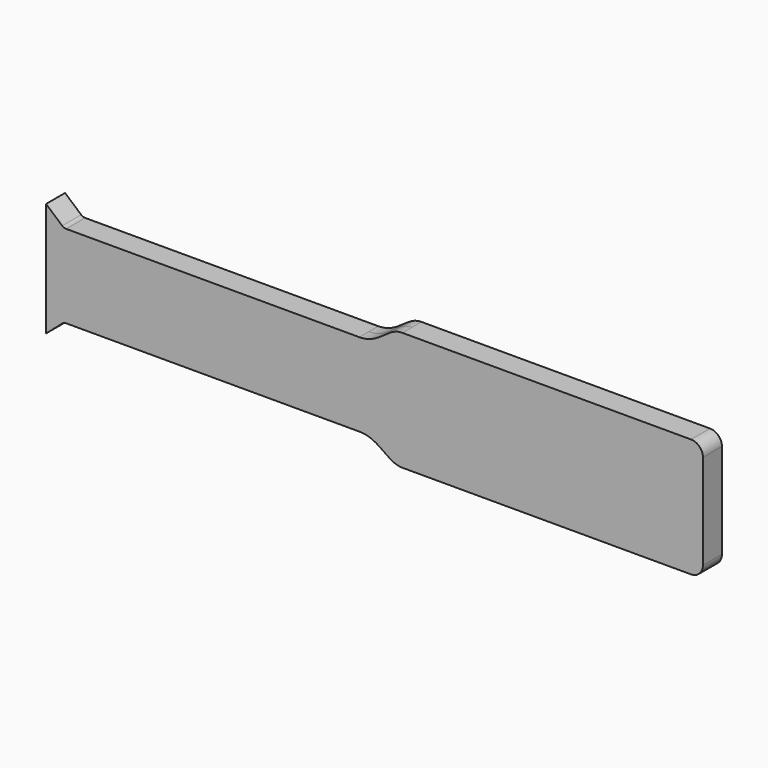
from build123d import *

# Parameters (mm, degrees)
F0_W     = 151.5346497297
F0_H     = 70
F1_DEPTH = 10
F2_R     = 10
F3_R     = 5
F4_R     = 5


with BuildPart() as f1:
    # F0 (on Front) → F1 (new body, symmetric)
    with BuildSketch(Plane.XZ):
        Polygon((-300, 48), (-300, 35), (-285, 35), align=None)
        Polygon((-285, 35), (-300, 35), (-300, -35), (-285, -35), (-36.2545801078, -35), (0, -35), (0, 35), (-36.2545801078, 35), align=None)
        Polygon((-285, -35), (-300, -35), (-300, -48), align=None)
        with BuildLine():
            add(Edge.make_bspline(
                [(0, 50), (-13.1023780133, 50), (-19.1101505149, 35), (-36.2545801078, 35)],
                knots=[0, 0, 0, 0, 39.2351192019, 39.2351192019, 39.2351192019, 39.2351192019], degree=3))
            Line((-36.2545801078, 35), (0, 35))
            Line((0, 35), (0, 50))
        make_face()
        Polygon((0, 50), (0, 35), (151.5346497297, 35), (151.5346497297, -35), (0, -35), (0, -50), (253, -50), (253, 50), align=None)
        with BuildLine():
            Line((0, -35), (-36.2545801078, -35))
            add(Edge.make_bspline(
                [(-36.2545801078, -35), (-19.1101505149, -35), (-13.1023780133, -50), (0, -50)],
                knots=[0, 0, 0, 0, 39.2351192019, 39.2351192019, 39.2351192019, 39.2351192019], degree=3))
            Line((0, -50), (0, -35))
        make_face()
        with Locations((75.7673248649, 0)):
            Rectangle(F0_W, F0_H)
        with Locations((75.7673248649, 0)):
            Rectangle(F0_W, F0_H)
    extrude(amount=F1_DEPTH, both=True)

    # F2
    f2_edges = [f1.edges().sort_by_distance(p)[0] for p in [
        (253, 0, 50),
        (253, 0, -50),
    ]]
    fillet(f2_edges, radius=F2_R)

    # F3
    f3_edges = [f1.edges().sort_by_distance(p)[0] for p in [
        (-285, 0, 35),
    ]]
    fillet(f3_edges, radius=F3_R)

    # F4
    f4_edges = [f1.edges().sort_by_distance(p)[0] for p in [
        (-285, 0, -35),
    ]]
    fillet(f4_edges, radius=F4_R)


solid = f1.part
